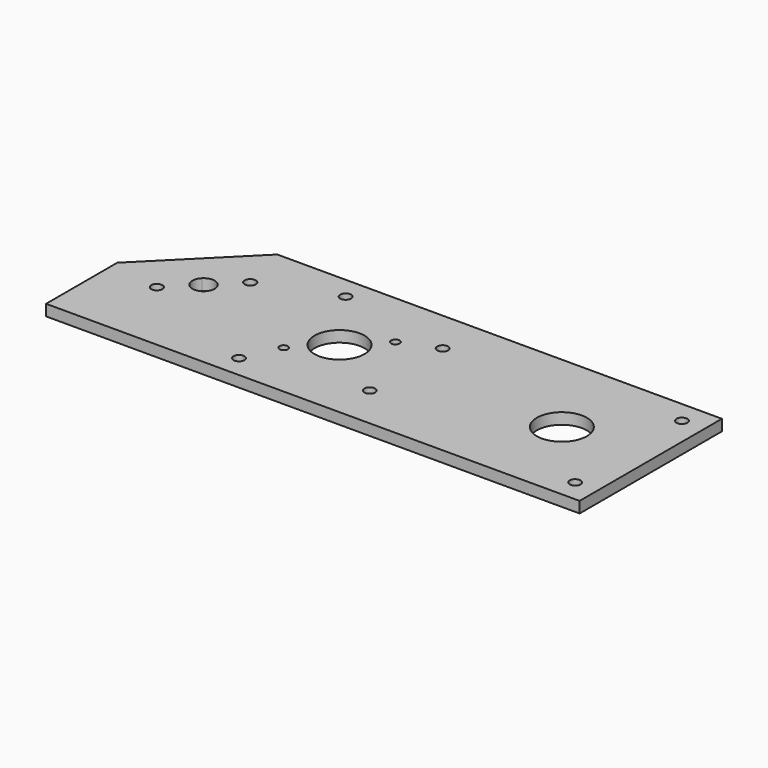
from build123d import *

# Parameters (mm, degrees)
F0_W      = 304.8
F0_H      = 101.6
F1_DEPTH  = 6.35
F2_R      = 14.2875
F3_DEPTH  = 6.35
F5_R      = 2.413
F6_DEPTH  = 6.35
F7_R      = 3.1115
F8_DEPTH  = 6.35
F9_R      = 3.1115
F10_DEPTH = 6.35
F11_R     = 3.1115
F12_DEPTH = 6.35
F13_R     = 3.1115
F14_DEPTH = 6.35
F15_R     = 14.2875
F16_DEPTH = 6.35
F17_R     = 3.1115
F19_DEPTH = 6.35
F18_R     = 3.1115
F20_DEPTH = 6.35
F21_SIZE  = 50.8
F23_DEPTH = 6.35


with BuildPart() as f1:
    # F0 (on Top) → F1 (new body)
    with BuildSketch(Plane.XY):
        with Locations((79.710026, -8.171286)):
            Rectangle(F0_W, F0_H)
    extrude(amount=F1_DEPTH)

    # F2 (on face) → F3 (cut)
    with BuildSketch(Plane.XY.offset(6.35)):
        with Locations((54.310026, -8.171286)):
            Circle(F2_R)
    extrude(amount=-F3_DEPTH, mode=Mode.SUBTRACT)

    # F5 (on face) → F6 (cut)
    with BuildSketch(Plane.XY.offset(6.35)):
        with Locations((36.580826, -25.900486)):
            Circle(F5_R)
        with Locations((72.039226, 9.557914)):
            Circle(F5_R)
    extrude(amount=-F6_DEPTH, mode=Mode.SUBTRACT)

    # F7 (on face) → F8 (cut)
    with BuildSketch(Plane.XY):
        with Locations((27.322526, 29.928714)):
            Circle(F7_R)
    extrude(amount=F8_DEPTH, mode=Mode.SUBTRACT)

    # F9 (on face) → F10 (cut)
    with BuildSketch(Plane.XY.offset(6.35)):
        with Locations((219.410026, 29.928714)):
            Circle(F9_R)
    extrude(amount=-F10_DEPTH, mode=Mode.SUBTRACT)

    # F11 (on face) → F12 (cut)
    with BuildSketch(Plane.XY.offset(6.35)):
        with Locations((27.330443, -46.271286)):
            Circle(F11_R)
    extrude(amount=-F12_DEPTH, mode=Mode.SUBTRACT)

    # F13 (on face) → F14 (cut)
    with BuildSketch(Plane.XY.offset(6.35)):
        with Locations((219.410026, -46.271286)):
            Circle(F13_R)
    extrude(amount=-F14_DEPTH, mode=Mode.SUBTRACT)

    # F15 (on face) → F16 (cut)
    with BuildSketch(Plane.XY.offset(6.35)):
        with Locations((181.310026, -8.171286)):
            Circle(F15_R)
    extrude(amount=-F16_DEPTH, mode=Mode.SUBTRACT)

    # F17 (on Top) → F19 (cut)
    with BuildSketch(Plane.XY):
        with Locations((92.410026, 17.863714)):
            Circle(F17_R)
    extrude(amount=F19_DEPTH, mode=Mode.SUBTRACT)

    # F18 (on Top) → F20 (cut)
    with BuildSketch(Plane.XY):
        with Locations((92.410026, -34.206286)):
            Circle(F18_R)
    extrude(amount=F20_DEPTH, mode=Mode.SUBTRACT)

    # F21
    f21_edges = [f1.edges().sort_by_distance(p)[0] for p in [
        (-72.689974, 42.628714, 3.175),
    ]]
    chamfer(f21_edges, length=F21_SIZE)

    # F22 (on face) → F23 (cut)
    with BuildSketch(Plane(origin=(0, 0, 0), x_dir=(1, 0, 0), z_dir=(0, 0, -1))):
        with BuildLine():
            ThreePointArc((-40.971884, 15.549221), (-47.080201, 16.76424), (-41.90182, 13.304157))
            ThreePointArc((-41.90182, 13.304157), (-41.213566, 14.334201), (-40.971884, 15.549221))
        make_face()
        with BuildLine():
            ThreePointArc((-33.819589, 5.221926), (-35.679461, 0.731798), (-33.819589, -3.75833))
            Line((-33.819589, -3.75833), (-29.329461, 0.731798))
            Line((-29.329461, 0.731798), (-33.819589, 5.221926))
        make_face()
        with BuildLine():
            Line((-33.819589, 5.221926), (-29.329461, 0.731798))
            Line((-29.329461, 0.731798), (-24.839333, 5.221926))
            ThreePointArc((-24.839333, 5.221926), (-29.329461, 7.081798), (-33.819589, 5.221926))
        make_face()
        with BuildLine():
            Line((-24.839333, 5.221926), (-29.329461, 0.731798))
            Line((-29.329461, 0.731798), (-24.839333, -3.75833))
            ThreePointArc((-24.839333, -3.75833), (-23.462826, -1.698242), (-22.979461, 0.731798))
            ThreePointArc((-22.979461, 0.731798), (-23.462826, 3.161838), (-24.839333, 5.221926))
        make_face()
        with BuildLine():
            Line((-29.329461, 0.731798), (-33.819589, -3.75833))
            ThreePointArc((-33.819589, -3.75833), (-29.329461, -5.618202), (-24.839333, -3.75833))
            Line((-24.839333, -3.75833), (-29.329461, 0.731798))
        make_face()
        with BuildLine():
            ThreePointArc((-11.337039, -14.085625), (-13.297019, -11.152307), (-16.757103, -11.840561))
            ThreePointArc((-16.757103, -11.840561), (-15.727059, -17.018942), (-11.337039, -14.085625))
        make_face()
    extrude(amount=-F23_DEPTH, mode=Mode.SUBTRACT)


solid = f1.part
